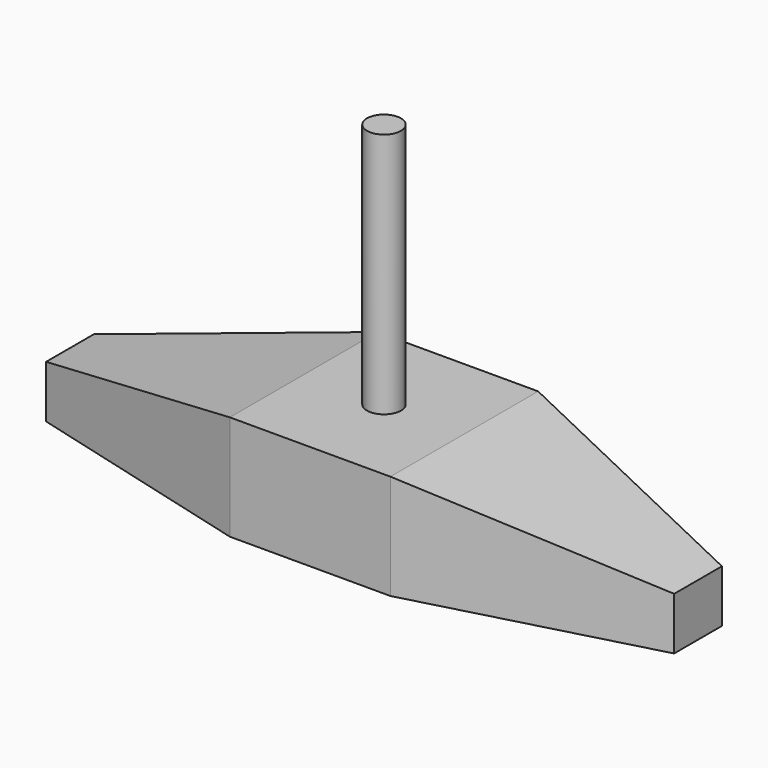
from build123d import *

# Parameters (mm, degrees)
F1_DEPTH = 76.2
F2_R     = 7.014916
F3_DEPTH = 101.6
F5_DEPTH = 76.2
F6_DEPTH = 76.2


with BuildPart() as f1:
    # F0 (on Front) → F1 (new body)
    with BuildSketch(Plane.XZ):
        Polygon((129.538909, 0), (33.115212, 21.670986), (14.60965, 21.670986), (0, 21.670986), (-33.115212, 21.670986), (-129.538909, 0), (-129.538909, -21.670986), (129.538909, -21.670986), align=None)
    extrude(amount=F1_DEPTH)

    # F2 (on face) → F3 (join)
    with BuildSketch(Plane.XY.offset(21.670986)):
        with Locations((0, -38.1)):
            Circle(F2_R)
    extrude(amount=F3_DEPTH)

    # F4 (on face) → F5 (cut)
    with BuildSketch(Plane.XY.offset(21.670986)):
        Polygon((134.795412, 6.28761), (33.115212, 0), (134.795412, -27.191089), align=None)
    extrude(amount=-F5_DEPTH, mode=Mode.SUBTRACT)

    # F4 (on face) → F6 (cut)
    with BuildSketch(Plane.XY.offset(21.670986)):
        Polygon((134.795412, 6.28761), (33.115212, 0), (134.795412, -27.191089), align=None)
        Polygon((-134.795412, -27.191089), (-33.115212, 0), (-134.795412, 6.28761), align=None)
        Polygon((134.795412, -49.008911), (33.115212, -76.2), (134.795412, -82.48761), align=None)
        Polygon((-134.795412, -82.48761), (-33.115212, -76.2), (-134.795412, -49.008911), align=None)
    extrude(amount=-F6_DEPTH, mode=Mode.SUBTRACT)


solid = f1.part
